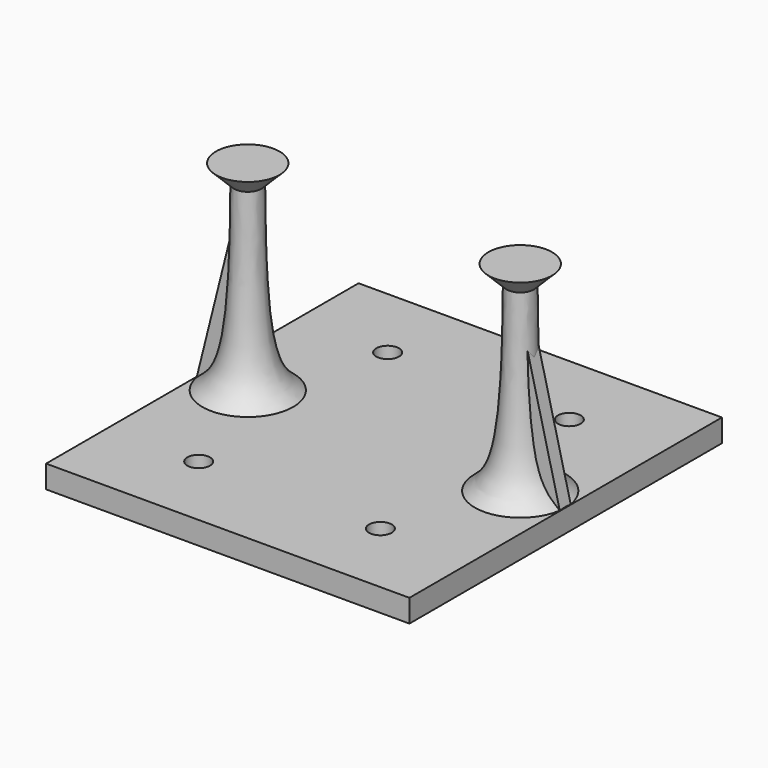
from build123d import *

# Parameters (mm, degrees)
F0_W     = 80
F0_H     = 17
F0_H_2   = 52
F5_DEPTH = 5
F6_D     = 5
F7_DEPTH = 1.5
F8_DEPTH = 1.5


with BuildPart() as f3:
    # F1 (on Front) → F3 (revolve)
    with BuildSketch(Plane.XZ):
        with BuildLine():
            add(Edge.make_bspline(
                [(-20, 0), (-21.5544057374, 1.2794487258), (-26.61671515, 5.4462921511), (-26.8431163473, 25.8567018682), (-27, 40)],
                knots=[0, 0, 0, 0, 0.3070546683, 1, 1, 1, 1], degree=3))
            Line((-27, 40), (-30, 40))
            Line((-30, 40), (-30, 0))
            Line((-30, 0), (-20, 0))
        make_face()
        Polygon((-30, 40), (-27, 40), (-23, 44), (-30, 44), align=None)
    revolve(axis=Axis((-30, 0, 20), (0, 0, -1)))


with BuildPart() as f4:
    # F1 (on Front) → F4 (revolve)
    with BuildSketch(Plane.XZ):
        with BuildLine():
            Line((30, 0), (30, 40))
            Line((30, 40), (27, 40))
            add(Edge.make_bspline(
                [(20, 0), (21.5544076314, 1.2794480444), (26.6167227969, 5.4462889088), (26.8431194806, 25.8567008448), (27, 40)],
                knots=[0, 0, 0, 0, 0.3070546935, 1, 1, 1, 1], degree=3))
            Line((20, 0), (30, 0))
        make_face()
        Polygon((27, 40), (30, 40), (30, 44), (23, 44), align=None)
    revolve(axis=Axis((30, 0, 20), (0, 0, -1)))


with BuildPart() as f5:
    # F0 (on Top) → F5 (new body)
    with BuildSketch(Plane.XY):
        with Locations((0, -34.5)):
            Rectangle(F0_W, F0_H)
        Rectangle(F0_W, F0_H_2)
        with Locations((0, 34.5)):
            Rectangle(F0_W, F0_H)
    extrude(amount=-F5_DEPTH)

    # F6 (through all)
    with Locations(Plane.XY):
        with Locations((-20, -26), (-20, 26), (20, 26), (20, -26)):
            Hole(F6_D / 2)

    # F1 (on Front) → F7 (join, symmetric)
    with BuildSketch(Plane.XZ):
        Polygon((-30, 0), (-30, 40), (-40, 0), align=None)
    extrude(amount=F7_DEPTH, both=True)

    # F1 (on Front) → F8 (join, symmetric)
    with BuildSketch(Plane.XZ):
        Polygon((39.9074889719, 0), (30, 40), (30, 0), align=None)
    extrude(amount=F8_DEPTH, both=True)


solid = Compound([f3.part, f4.part, f5.part])
